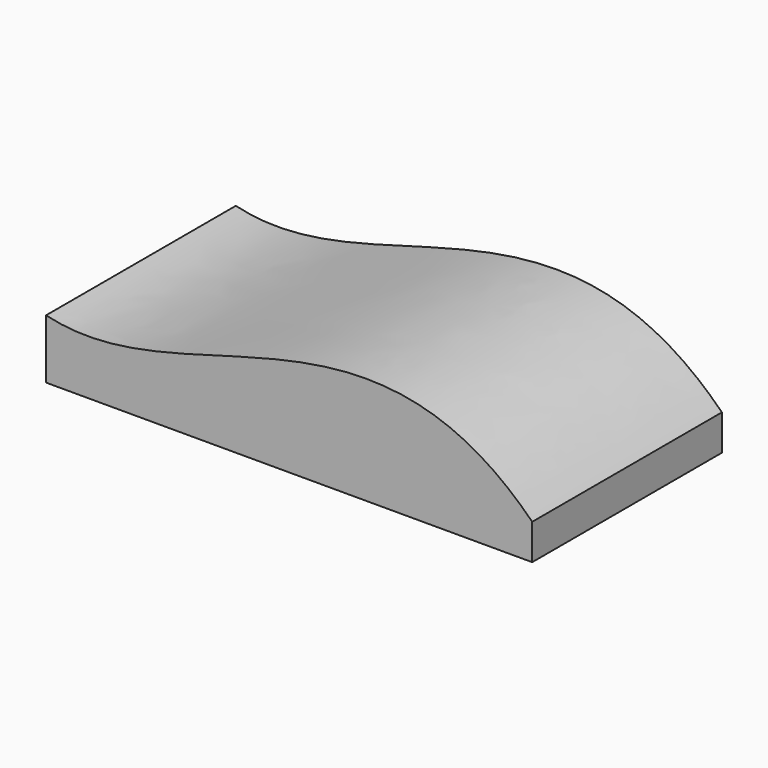
from build123d import *

# Parameters (mm, degrees)
PAD_DEPTH = 100


with BuildPart() as part:
    # Sketch → Pad (new body)
    with BuildSketch(Plane.XZ):
        with BuildLine():
            add(Edge.make_bspline(
                [(-105, 25), (-45, 10), (30, 85), (100, 15)],
                knots=[0, 0, 0, 0, 1, 1, 1, 1], degree=3))
            Line((100, 15), (100, 0))
            Line((100, 0), (-105, 0))
            Line((-105, 0), (-105, 25))
        make_face()
    extrude(amount=PAD_DEPTH)


solid = part.part
